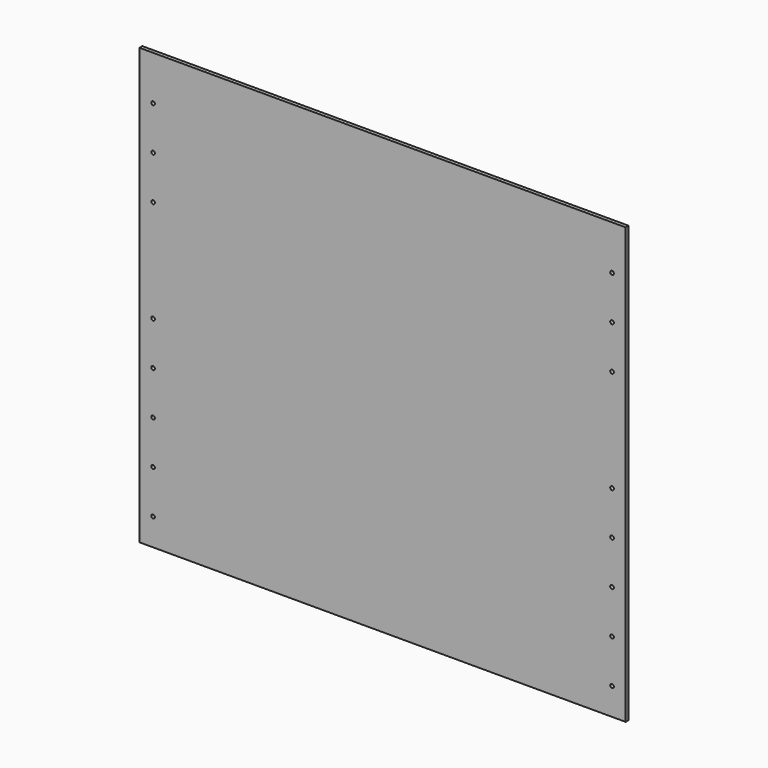
from build123d import *

# Parameters (mm, degrees)
F0_R     = 1.5875
F0_W     = 23.8125
F0_H     = 127
F0_H_2   = 199.9742
F1_DEPTH = 3.175


with BuildPart() as f1:
    # F0 (on Front) → F1 (new body)
    with BuildSketch(Plane.XZ):
        Polygon((212.725, 190.5), (-212.725, 190.5), (-212.725, 177.0253), (-188.9125, 177.0253), (-188.9125, 50.0253), (-212.725, 50.0253), (-212.725, 9.4742), (-188.9125, 9.4742), (-188.9125, -190.5), (188.9125, -190.5), (188.9125, 9.4742), (212.725, 9.4742), align=None)
        with Locations((200.81875, 75.4253)):
            Circle(F0_R, mode=Mode.SUBTRACT)
        with Locations((200.81875, 113.5253)):
            Circle(F0_R, mode=Mode.SUBTRACT)
        with Locations((200.81875, 151.6253)):
            Circle(F0_R, mode=Mode.SUBTRACT)
        with Locations((-200.81875, 113.5253)):
            Rectangle(F0_W, F0_H)
        with Locations((-200.81875, 75.4253)):
            Circle(F0_R, mode=Mode.SUBTRACT)
        with Locations((-200.81875, 113.5253)):
            Circle(F0_R, mode=Mode.SUBTRACT)
        with Locations((-200.81875, 151.6253)):
            Circle(F0_R, mode=Mode.SUBTRACT)
        with Locations((-200.81875, -90.5129)):
            Rectangle(F0_W, F0_H_2)
        with Locations((-200.81875, -166.7129)):
            Circle(F0_R, mode=Mode.SUBTRACT)
        with Locations((-200.81875, -128.6129)):
            Circle(F0_R, mode=Mode.SUBTRACT)
        with Locations((-200.81875, -90.5129)):
            Circle(F0_R, mode=Mode.SUBTRACT)
        with Locations((-200.81875, -52.4129)):
            Circle(F0_R, mode=Mode.SUBTRACT)
        with Locations((-200.81875, -14.3129)):
            Circle(F0_R, mode=Mode.SUBTRACT)
        with Locations((200.81875, -90.5129)):
            Rectangle(F0_W, F0_H_2)
        with Locations((200.81875, -166.7129)):
            Circle(F0_R, mode=Mode.SUBTRACT)
        with Locations((200.81875, -128.6129)):
            Circle(F0_R, mode=Mode.SUBTRACT)
        with Locations((200.81875, -90.5129)):
            Circle(F0_R, mode=Mode.SUBTRACT)
        with Locations((200.81875, -52.4129)):
            Circle(F0_R, mode=Mode.SUBTRACT)
        with Locations((200.81875, -14.3129)):
            Circle(F0_R, mode=Mode.SUBTRACT)
    extrude(amount=F1_DEPTH)


solid = f1.part
